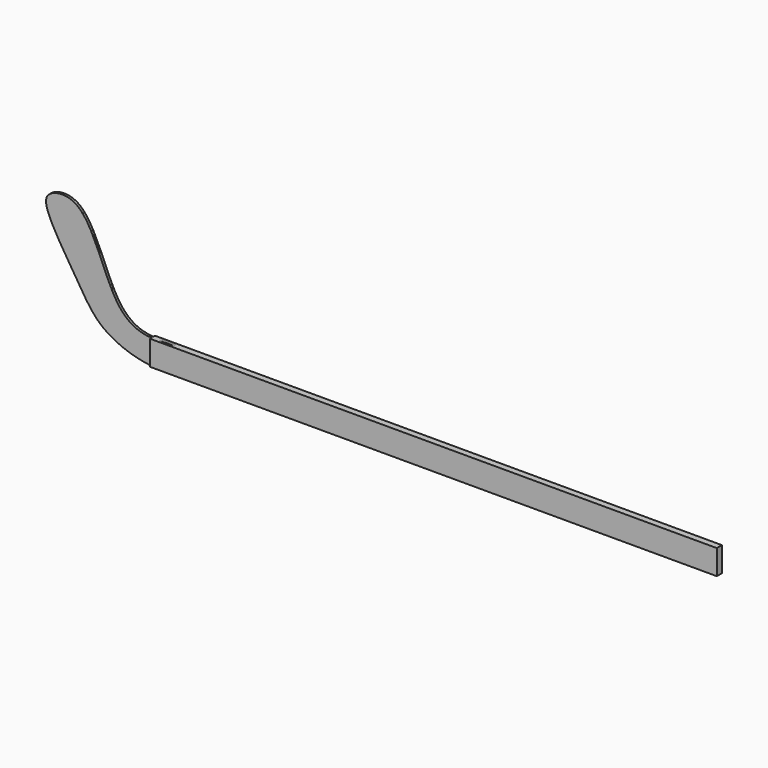
from build123d import *

# Parameters (mm, degrees)
F1_DEPTH      = 3.81
F1_DEPTH_BACK = 3.81
F2_W          = 1684.0332998967
F2_H          = 73.5217577487
F3_DEPTH      = 9.525
F3_DEPTH_BACK = 9.525


with BuildPart() as f1:
    # F0 (on Front) → F1 (new body, two sides)
    with BuildSketch(Plane.XZ) as f1_sk:
        with BuildLine():
            add(Edge.make_bspline(
                [(-298.8809511983, -23.1748263408), (-338.3254806111, -21.0978942149), (-421.9481692282, 17.2303188481), (-484.7056285187, 281.6186060484), (-613.0724046861, 263.1464953816), (-614.2633141649, 201.4922242958), (-516.8773831882, 56.2886695758), (-454.0032789141, -56.1786102779), (-347.0056197056, -91.8043038939), (-298.8809511983, -96.6965840895)],
                knots=[0, 0, 0, 0, 0.1040192033, 0.2536040193, 0.3404895417, 0.4040202227, 0.5294584093, 0.6401994015, 0.7571548507, 0.7571548507, 0.7571548507, 0.7571548507], degree=3))
            Line((-298.8809511983, -96.6965840895), (-298.8809511983, -23.1748263408))
        make_face()
        with BuildLine():
            Line((-298.8809511983, -23.1748263408), (-298.8809511983, -96.6965840895))
            add(Edge.make_bspline(
                [(-298.8809511983, -96.6965840895), (-262.3110361205, -100.4142257241), (-205.7392349018, -93.4362108257), (-200.3509895681, -10.7934205549), (-265.234308768, -24.9464736044), (-298.8809511983, -23.1748263408)],
                knots=[0.7571548507, 0.7571548507, 0.7571548507, 0.7571548507, 0.8460292467, 0.9112704095, 1, 1, 1, 1], degree=3))
        make_face()
    extrude(amount=F1_DEPTH)
    extrude(f1_sk.sketch, amount=-F1_DEPTH_BACK)

    # F2 (on Front) → F3 (join, two sides)
    with BuildSketch(Plane.XZ) as f3_sk:
        with Locations((543.13569875, -59.9357052152)):
            Rectangle(F2_W, F2_H)
    extrude(amount=F3_DEPTH)
    extrude(f3_sk.sketch, amount=-F3_DEPTH_BACK)


solid = f1.part
